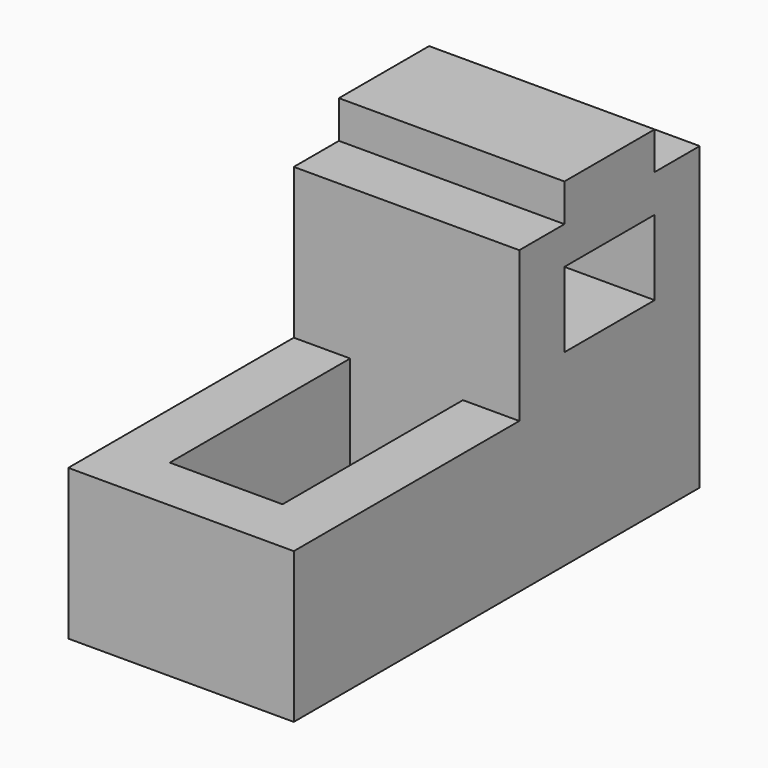
from build123d import *

# Parameters (mm, degrees)
F0_W     = 609.6
F0_H     = 406.4
F1_DEPTH = 1219.2
F2_W     = 609.6
F2_H     = 1219.2
F3_DEPTH = 609.6


with BuildPart() as f1:
    # F0 (on Right) → F1 (new body)
    with BuildSketch(Plane.YZ):
        Polygon((-2743.2, 0), (0, 0), (0, 1625.6), (-304.8, 1625.6), (-304.8, 1828.8), (-914.4, 1828.8), (-914.4, 1625.6), (-1219.2, 1625.6), (-1219.2, 812.8), (-2743.2, 812.8), align=None)
        with Locations((-609.6, 1219.2)):
            Rectangle(F0_W, F0_H, mode=Mode.SUBTRACT)
    extrude(amount=-F1_DEPTH)

    # F2 (on face) → F3 (cut)
    with BuildSketch(Plane.XY.offset(812.8)):
        with Locations((-609.6, -1828.8)):
            Rectangle(F2_W, F2_H)
    extrude(amount=-F3_DEPTH, mode=Mode.SUBTRACT)


solid = f1.part
